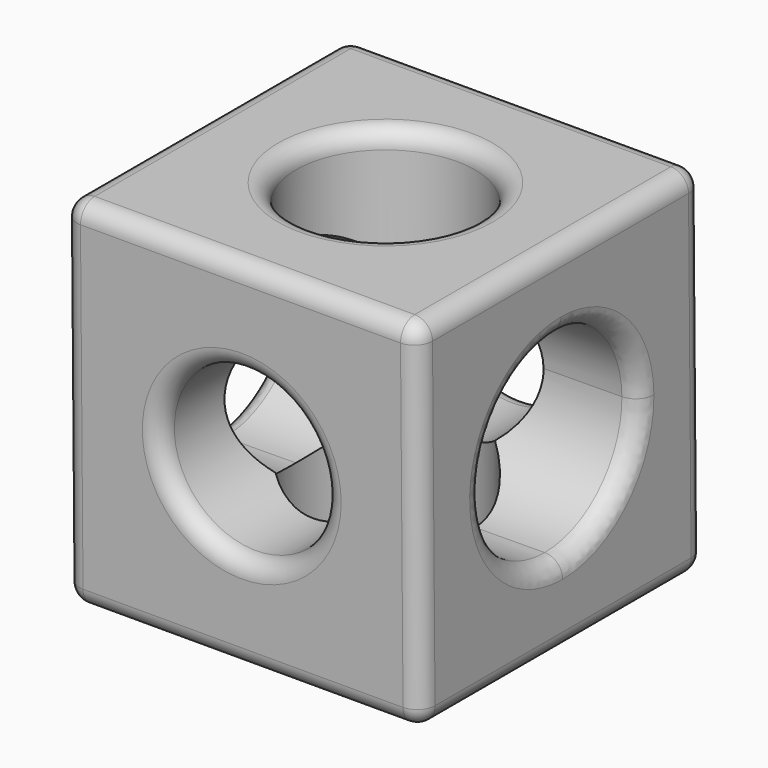
from build123d import *

# Parameters (mm, degrees)
F1_DEPTH = 50.8
F2_R     = 11.6665332046
F3_DEPTH = 50.8
F5_DEPTH = 50.8
F6_R     = 12.7866289196
F7_DEPTH = 50.8
F8_R     = 2.54


with BuildPart() as f1:
    # F0 (on Front) → F1 (new body)
    with BuildSketch(Plane.XZ):
        Polygon((0, 0), (50.8, 0), (50.3954055723, 50.7983887869), (-0.4045944277, 50.7983887869), align=None)
    extrude(amount=F1_DEPTH)

    # F2 (on face) → F3 (cut)
    with BuildSketch(Plane.XZ.offset(50.8)):
        with Locations((25.1977027862, 25.3991943935)):
            Circle(F2_R)
    extrude(amount=-F3_DEPTH, mode=Mode.SUBTRACT)

    # F4 (on face) → F5 (cut)
    with BuildSketch(Plane(origin=(50.796777625, 0, 0.4045815952), x_dir=(0, 1, 0), z_dir=(0.9999682832, 0, 0.0079644572))):
        with BuildLine():
            ThreePointArc((-11.4891985808, 25.1977027862), (-15.5635779847, 35.0341248014), (-25.4, 39.1085042054))
            Line((-25.4, 39.1085042054), (-25.4, 11.2869013669))
            ThreePointArc((-25.4, 11.2869013669), (-15.5635779847, 15.3612807709), (-11.4891985808, 25.1977027862))
        make_face()
        with BuildLine():
            Line((-25.4, 11.2869013669), (-25.4, 39.1085042054))
            ThreePointArc((-25.4, 39.1085042054), (-39.3108014192, 25.1977027862), (-25.4, 11.2869013669))
        make_face()
    extrude(amount=-F5_DEPTH, mode=Mode.SUBTRACT)

    # F6 (on face) → F7 (cut)
    with BuildSketch(Plane(origin=(0, 0, 0), x_dir=(1, 0, 0), z_dir=(0, 0, -1))):
        with Locations((25.4, 25.4)):
            Circle(F6_R)
    extrude(amount=-F7_DEPTH, mode=Mode.SUBTRACT)

    # F8
    f8_edges = [f1.edges().sort_by_distance(p)[0] for p in [
        (50.597703, 0, 25.399194),
        (50.395406, -25.4, 50.798389),
        (50.597703, -50.8, 25.399194),
        (50.8, -25.4, 0),
        (24.995406, 0, 50.798389),
        (24.995406, -50.8, 50.798389),
        (25.4, 0, 0),
        (25.4, -50.8, 0),
        (-0.202297, 0, 25.399194),
        (-0.404594, -25.4, 50.798389),
        (-0.202297, -50.8, 25.399194),
        (0, -25.4, 0),
        (-0.200686, -39.310801, 25.196904),
        (13.53117, -50.8, 25.399194),
        (12.613371, -25.4, 0),
        (12.613371, -25.4, 50.798389),
        (50.596092, -39.310801, 25.601485),
        (13.53117, 0, 25.399194),
    ]]
    fillet(f8_edges, radius=F8_R)


solid = f1.part
